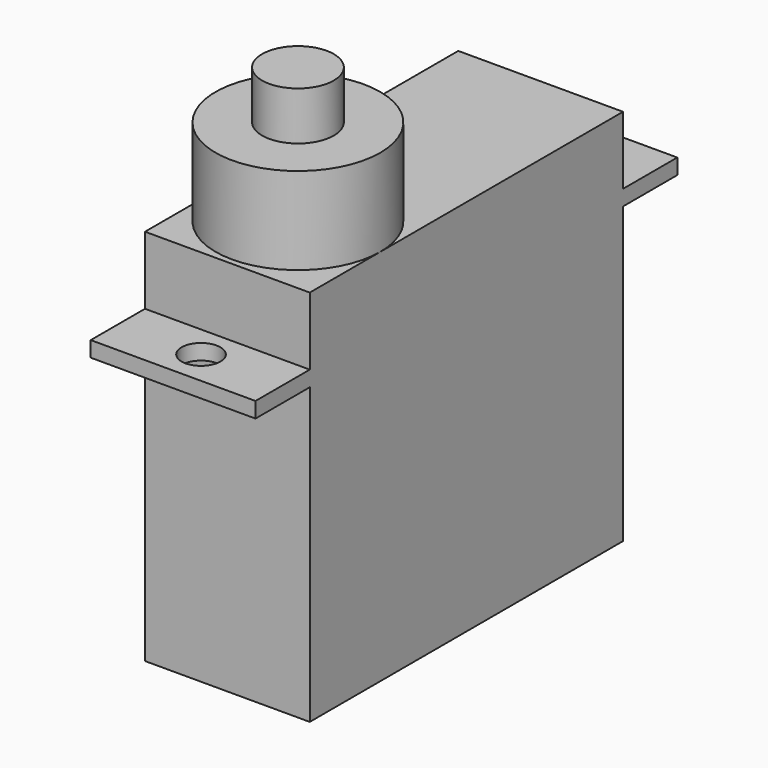
from build123d import *

# Parameters (mm, degrees)
SKETCH_W     = 8.5
SKETCH_H     = 20.2
PAD_DEPTH    = 15.2
SKETCH001_R  = 1
PAD001_DEPTH = 0.8
SKETCH002_W  = 8.5
SKETCH002_H  = 20.2
PAD002_DEPTH = 3.5
SKETCH003_R  = 4.25
PAD003_DEPTH = 4.5
SKETCH004_R  = 1.85
PAD004_DEPTH = 2.5


with BuildPart() as part:
    # Sketch → Pad (new body)
    with BuildSketch(Plane.XY):
        Rectangle(SKETCH_W, SKETCH_H)
    extrude(amount=PAD_DEPTH)

    # Sketch001 (on Face6 of Pad) → Pad001 (join)
    with BuildSketch(Plane.XY.offset(15.2)):
        Polygon((4.25, 10.1), (4.25, 13.6), (-4.25, 13.6), (-4.25, 10.1), (-4.25, -10.1), (-4.25, -13.6), (4.25, -13.6), (4.25, -10.1), align=None)
        with Locations((0, 11.8)):
            Circle(SKETCH001_R, mode=Mode.SUBTRACT)
        with Locations((0, -11.8)):
            Circle(SKETCH001_R, mode=Mode.SUBTRACT)
    extrude(amount=PAD001_DEPTH)

    # Sketch002 (on Face9 of Pad001) → Pad002 (join)
    with BuildSketch(Plane.XY.offset(16)):
        Rectangle(SKETCH002_W, SKETCH002_H)
    extrude(amount=PAD002_DEPTH)

    # Sketch003 (on Face14 of Pad002) → Pad003 (join)
    with BuildSketch(Plane.XY.offset(19.5)):
        with Locations((0, -5.55)):
            Circle(SKETCH003_R)
    extrude(amount=PAD003_DEPTH)

    # Sketch004 (on Face19 of Pad003) → Pad004 (join)
    with BuildSketch(Plane.XY.offset(24)):
        with Locations((0, -5.55)):
            Circle(SKETCH004_R)
    extrude(amount=PAD004_DEPTH)


solid = part.part
